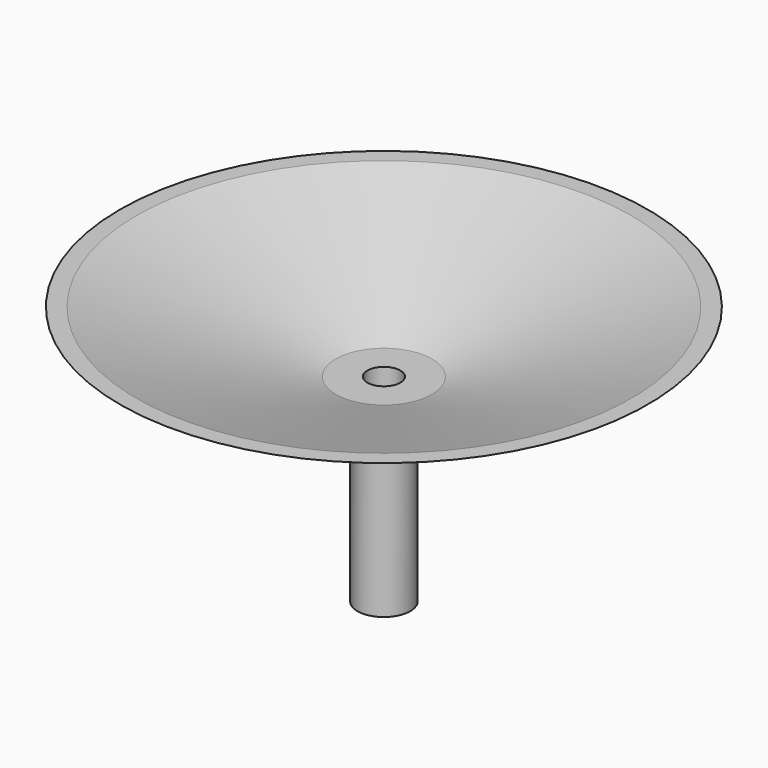
from build123d import *

# Parameters (mm, degrees)
F2_R     = 4
F3_DEPTH = 30
F5_R     = 2.498158
F6_DEPTH = 50


with BuildPart() as f1:
    # F0 (on Front) → F1 (revolve)
    with BuildSketch(Plane.XZ):
        Polygon((-2.5, 0), (0, 0), (0, 1.470086), (-7.284754, 1.470086), align=None)
        Polygon((-5, 0), (-2.5, 0), (-7.284754, 1.470086), (-9.784754, 1.470086), align=None)
        Polygon((-9.784754, 1.470086), (-7.284754, 1.470086), (-37.5, 10.753534), (-40, 10.753534), align=None)
    revolve(axis=Axis((0, 0, 3.122811), (0, 0, 1)))

    # F2 (on face) → F3 (join)
    with BuildSketch(Plane.XY.offset(1.470086)):
        Circle(F2_R)
    extrude(amount=-F3_DEPTH)

    # F5 (on face) → F6 (cut)
    with BuildSketch(Plane(origin=(0, 0, -28.529914), x_dir=(1, 0, 0), z_dir=(0, 0, -1))):
        Circle(F5_R)
    extrude(amount=-F6_DEPTH, mode=Mode.SUBTRACT)


solid = f1.part
